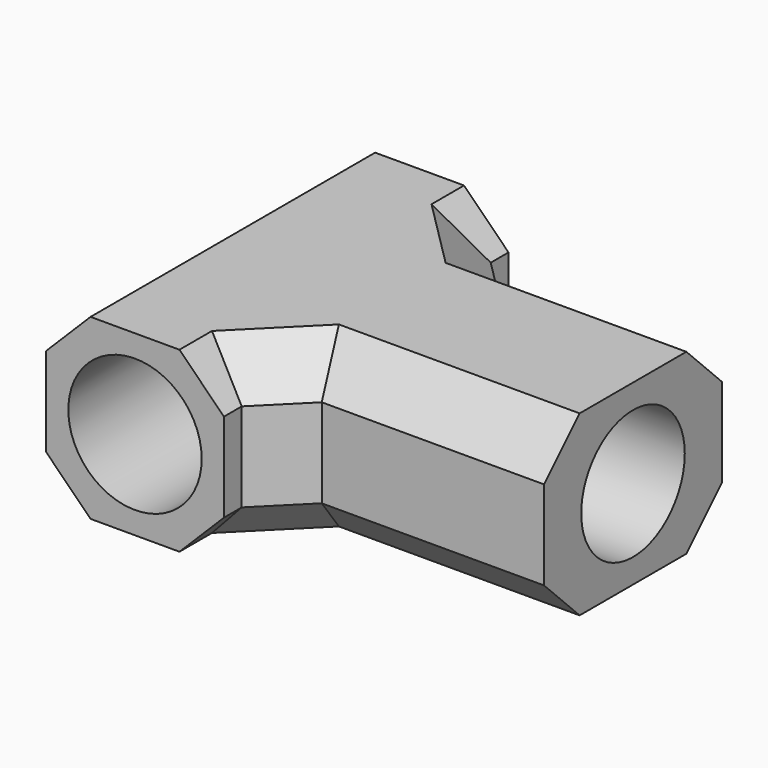
from build123d import *

# Parameters (mm, degrees)
F1_DEPTH = 25.4
F2_R     = 9.525
F3_DEPTH = 91.186
F4_R     = 9.2433485979
F5_DEPTH = 31.75
F6_SIZE  = 6.35
F7_SIZE  = 6.35


with BuildPart() as f1:
    # F0 (on Top) → F1 (new body)
    with BuildSketch(Plane.XY):
        Polygon((25.4, 15.875), (-12.7, 15.875), (-12.7, 25.4), (-38.1, 25.4), (-38.1, -25.4), (-12.7, -25.4), (-12.7, -15.875), (25.4, -15.875), align=None)
    extrude(amount=F1_DEPTH)

    # F2 (on face) → F3 (cut)
    with BuildSketch(Plane.XZ.offset(25.4)):
        with Locations((-25.4, 12.7)):
            Circle(F2_R)
    extrude(amount=-F3_DEPTH, mode=Mode.SUBTRACT)

    # F4 (on face) → F5 (cut)
    with BuildSketch(Plane.YZ.offset(25.4)):
        with Locations((0, 12.7)):
            Circle(F4_R)
    extrude(amount=-F5_DEPTH, mode=Mode.SUBTRACT)

    # F6
    f6_edges = [f1.edges().sort_by_distance(p)[0] for p in [
        (-12.7, 15.875, 12.7),
        (-12.7, -15.875, 12.7),
    ]]
    chamfer(f6_edges, length=F6_SIZE)

    # F7
    f7_edges = [f1.edges().sort_by_distance(p)[0] for p in [
        (-12.7, -23.8125, 25.4),
        (-9.525, -19.05, 25.4),
        (9.525, -15.875, 25.4),
        (9.525, 15.875, 25.4),
        (-9.525, 19.05, 25.4),
        (-12.7, 23.8125, 25.4),
        (-38.1, 0, 25.4),
        (9.525, 15.875, 0),
        (-9.525, 19.05, 0),
        (-12.7, 23.8125, 0),
        (-38.1, 0, 0),
        (-12.7, -23.8125, 0),
        (-9.525, -19.05, 0),
        (9.525, -15.875, 0),
    ]]
    chamfer(f7_edges, length=F7_SIZE)


solid = f1.part
